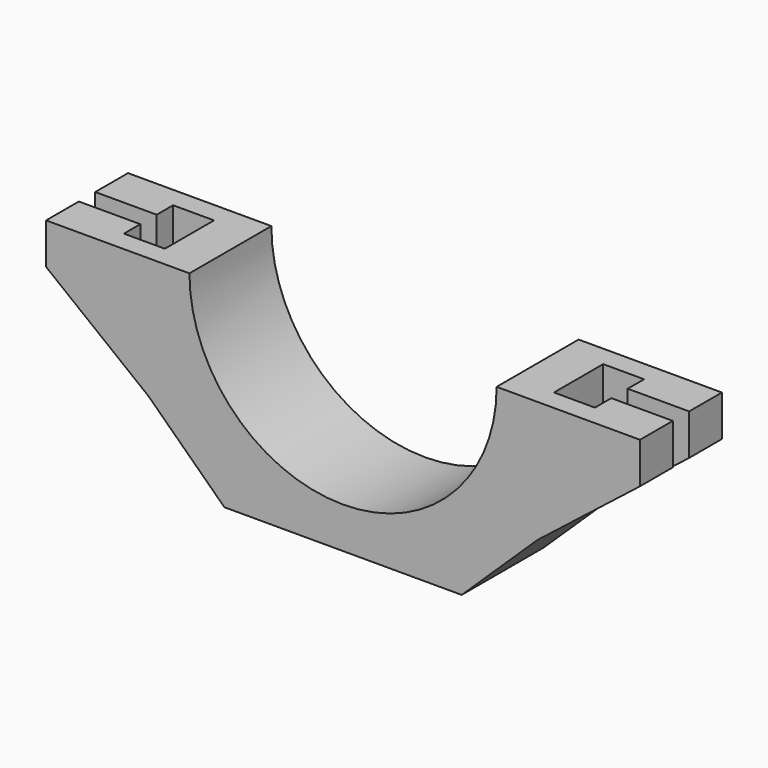
from build123d import *

# Parameters (mm, degrees)
F0_W      = 5
F0_H      = 2
F1_DEPTH  = 2.5
F5_DEPTH  = 5
F6_W      = 3
F6_H      = 1
F6_W_2    = 2
F7_DEPTH  = 25
F8_DEPTH  = 25
F9_DEPTH  = 19
F11_DEPTH = 25


with BuildPart() as f1:
    # F0 (on Front) → F1 (new body, symmetric)
    with BuildSketch(Plane.XZ):
        with BuildLine():
            ThreePointArc((6.25, 0), (-1.25, -7.5), (-8.75, 0))
            Line((-8.75, 0), (-10.75, 0))
            ThreePointArc((-10.75, 0), (-7.9675144213, -6.7175144213), (-1.25, -9.5))
            ThreePointArc((-1.25, -9.5), (5.4675144213, -6.7175144213), (8.25, 0))
            Line((8.25, 0), (6.25, 0))
        make_face()
        with BuildLine():
            ThreePointArc((-1.25, -9.5), (-7.9675144213, -6.7175144213), (-10.75, 0))
            Line((-10.75, 0), (-10.75, -2))
            Line((-10.75, -2), (-10.75, -9.5))
            Line((-10.75, -9.5), (-1.25, -9.5))
        make_face()
        with Locations((-13.25, -1)):
            Rectangle(F0_W, F0_H)
        with BuildLine():
            Line((8.25, -2), (8.25, 0))
            ThreePointArc((8.25, 0), (5.4675144213, -6.7175144213), (-1.25, -9.5))
            Line((-1.25, -9.5), (8.25, -9.5))
            Line((8.25, -9.5), (8.25, -2))
        make_face()
        with Locations((10.75, -1)):
            Rectangle(F0_W, F0_H)
    extrude(amount=F1_DEPTH, both=True)

    # F4 (on face) → F5 (join, through all)
    with BuildSketch(Plane.XZ.offset(2.5)):
        Polygon((-10.75, -2), (-15.75, -2), (-10.75, -5.9285714286), align=None)
        Polygon((8.25, -5.9285714286), (13.25, -2), (8.25, -2), align=None)
    extrude(amount=-F5_DEPTH)

    # F6 (on face) → F7 (cut)
    with BuildSketch(Plane.XY):
        with Locations((-14.25, 0)):
            Rectangle(F6_W, F6_H)
        with Locations((-11.75, 1)):
            Rectangle(F6_W_2, F6_H)
        with Locations((-11.75, 0)):
            Rectangle(F6_W_2, F6_H)
        with Locations((-11.75, -1)):
            Rectangle(F6_W_2, F6_H)
        Polygon((13.25, -0.500000013), (13.25, 0.499999987), (10.2499989308, 0.499999987), (10.2499989308, 1.499999987), (8.2499989308, 1.499999987), (8.2499989308, -1.500000013), (10.2499989308, -1.500000013), (10.2499989308, -0.500000013), align=None)
    extrude(amount=-F7_DEPTH, mode=Mode.SUBTRACT)

    # F3 (on face) → F8 (cut)
    with BuildSketch(Plane.YZ.offset(8.25)):
        Polygon((2.5, -9.5), (2.5, -8.1602540378), (-2.5, -9.5), align=None)
    extrude(amount=-F8_DEPTH, mode=Mode.SUBTRACT)

    # F3 (on face) → F9 (join, through all)
    with BuildSketch(Plane.YZ.offset(8.25)):
        Polygon((2.5, -9.5), (2.5, -8.1602540378), (-2.5, -9.5), align=None)
    extrude(amount=-F9_DEPTH)

    # F10 (on face) → F11 (cut)
    with BuildSketch(Plane.XZ.offset(2.5)):
        Polygon((-10.75, -9.5), (-7.04318, -9.5), (-10.75, -5.9285714286), align=None)
        Polygon((8.25, -5.9285714286), (4.54318, -9.5), (8.25, -9.5), align=None)
    extrude(amount=-F11_DEPTH, mode=Mode.SUBTRACT)


solid = f1.part
